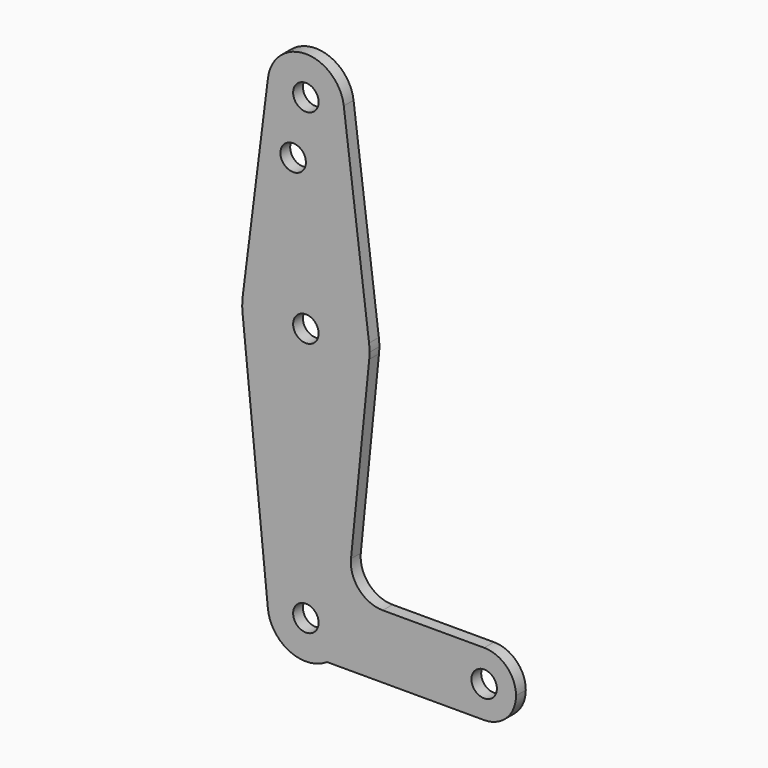
from build123d import *

# Parameters (mm, degrees)
F0_R     = 3.175
F1_DEPTH = 3.048


with BuildPart() as f1:
    # F0 (on Front) → F1 (new body)
    with BuildSketch(Plane.XZ):
        with BuildLine():
            ThreePointArc((5.265142, -7.9375), (8.392738, -4.504173), (9.525, 0))
            ThreePointArc((9.525, 0), (-0.476848, 9.513056), (-9.477255, -0.9525))
            ThreePointArc((-9.477255, -0.9525), (-4.078361, -8.607705), (5.265142, -7.9375))
        make_face()
        Circle(F0_R, mode=Mode.SUBTRACT)
        with BuildLine():
            ThreePointArc((-9.477255, -0.9525), (-0.476848, 9.513056), (9.525, 0))
            ThreePointArc((9.525, 0), (8.392738, -4.504173), (5.265142, -7.9375))
            Line((5.265142, -7.9375), (44.45, -7.9375))
            ThreePointArc((44.45, -7.9375), (36.5125, 0), (44.45, 7.9375))
            Line((44.45, 7.9375), (19.160011, 7.9375))
            ThreePointArc((19.160011, 7.9375), (13.263985, 10.554544), (11.249662, 16.68272))
            Line((11.249662, 16.68272), (15.795426, 61.9125))
            ThreePointArc((15.795426, 61.9125), (0, 47.625), (-15.795426, 61.9125))
            Line((-15.795426, 61.9125), (-9.477255, -0.9525))
        make_face()
        with BuildLine():
            ThreePointArc((-15.750488, 65.484375), (-15.873744, 63.699705), (-15.795426, 61.9125))
            ThreePointArc((-15.795426, 61.9125), (0, 47.625), (15.795426, 61.9125))
            ThreePointArc((15.795426, 61.9125), (15.855094, 62.705253), (15.875, 63.5))
            ThreePointArc((15.875, 63.5), (15.843841, 64.494139), (15.750488, 65.484375))
            ThreePointArc((15.750488, 65.484375), (0, 79.375), (-15.750488, 65.484375))
        make_face()
        with Locations((0, 63.5)):
            Circle(F0_R, mode=Mode.SUBTRACT)
        with BuildLine():
            ThreePointArc((44.45, 7.9375), (36.5125, 0), (44.45, -7.9375))
            ThreePointArc((44.45, -7.9375), (50.06266, -5.61266), (52.3875, 0))
            ThreePointArc((52.3875, 0), (50.06266, 5.61266), (44.45, 7.9375))
        make_face()
        with Locations((44.45, 0)):
            Circle(F0_R, mode=Mode.SUBTRACT)
        with BuildLine():
            Line((-9.450293, 115.490625), (-15.750488, 65.484375))
            ThreePointArc((-15.750488, 65.484375), (0, 79.375), (15.750488, 65.484375))
            Line((15.750488, 65.484375), (9.450293, 115.490625))
            ThreePointArc((9.450293, 115.490625), (9.506305, 114.896483), (9.525, 114.3))
            ThreePointArc((9.525, 114.3), (-0.596483, 104.793695), (-9.450293, 115.490625))
        make_face()
        with Locations((-3.175, 100.0252)):
            Circle(F0_R, mode=Mode.SUBTRACT)
        with BuildLine():
            ThreePointArc((9.450293, 115.490625), (0, 123.825), (-9.450293, 115.490625))
            ThreePointArc((-9.450293, 115.490625), (-0.596483, 104.793695), (9.525, 114.3))
            ThreePointArc((9.525, 114.3), (9.506305, 114.896483), (9.450293, 115.490625))
        make_face()
        with Locations((0, 114.3)):
            Circle(F0_R, mode=Mode.SUBTRACT)
    extrude(amount=F1_DEPTH)


solid = f1.part
